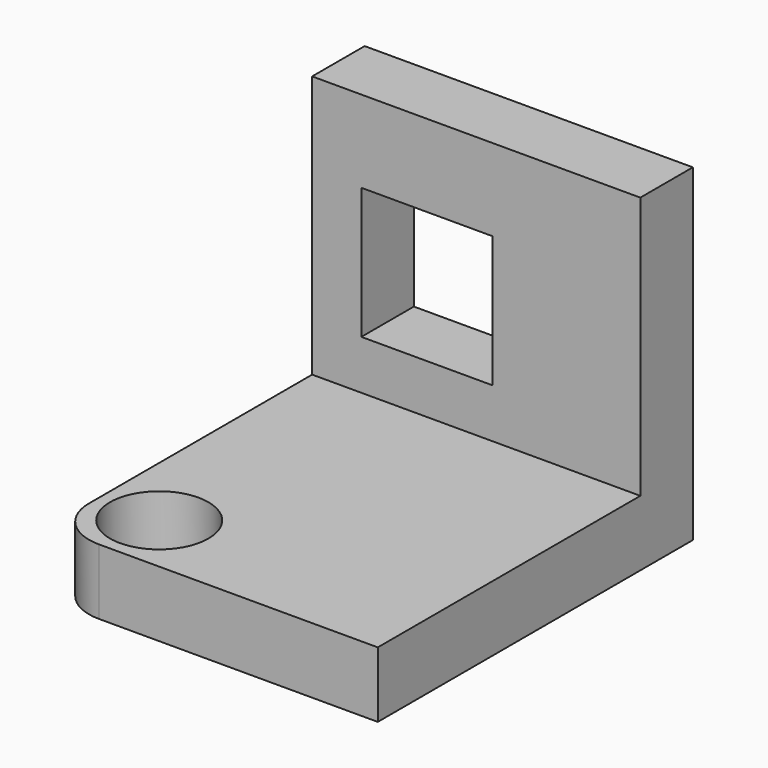
from build123d import *

# Parameters (mm, degrees)
F1_DEPTH = 20
F2_W     = 100
F2_H     = 100
F2_W_2   = 40
F2_H_2   = 40
F3_DEPTH = 20


with BuildPart() as f1:
    # F0 (on Top) → F1 (new body)
    with BuildSketch(Plane.XY):
        with BuildLine():
            Line((100, 0), (0, 0))
            Line((0, 0), (0, -85))
            ThreePointArc((0, -85), (1.141807, -90.740251), (4.393398, -95.606602))
            ThreePointArc((4.393398, -95.606602), (9.259749, -98.858193), (15, -100))
            Line((15, -100), (100, -100))
            Line((100, -100), (100, 0))
        make_face()
        with BuildLine():
            ThreePointArc((33.508259, -81.381075), (24.284639, -95.224247), (7.957134, -92.042866))
            ThreePointArc((7.957134, -92.042866), (12.731878, -67.537902), (33.508259, -81.381075))
        make_face(mode=Mode.SUBTRACT)
    extrude(amount=F1_DEPTH)

    # F2 (on Front) → F3 (join)
    with BuildSketch(Plane.XZ):
        with Locations((50, 50)):
            Rectangle(F2_W, F2_H)
        with Locations((35, 55)):
            Rectangle(F2_W_2, F2_H_2, mode=Mode.SUBTRACT)
    extrude(amount=-F3_DEPTH)


solid = f1.part
